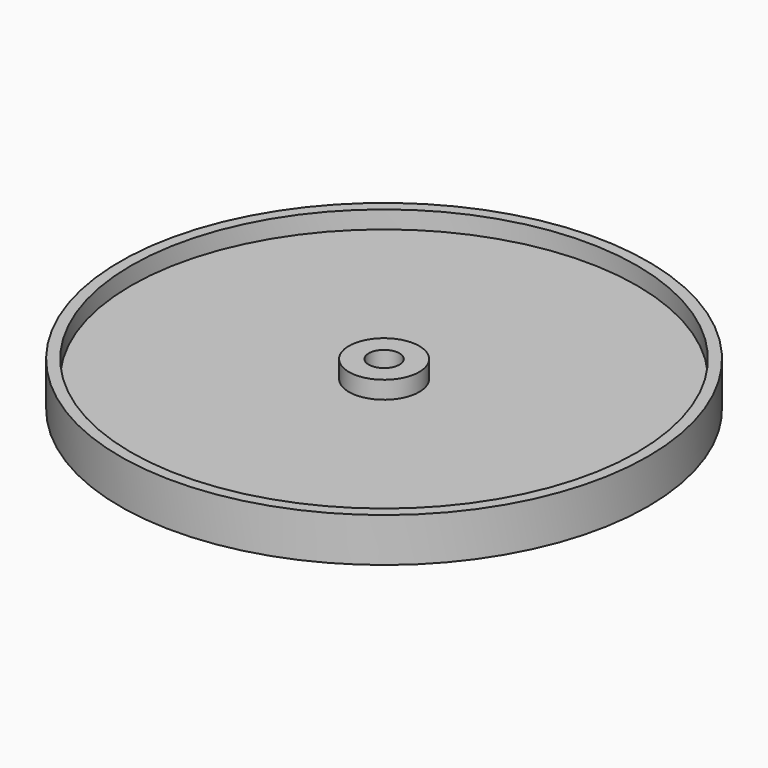
from build123d import *

# Parameters (mm, degrees)
SKETCH_R        = 120
SKETCH_R_2      = 7
PAD_DEPTH       = 20
SKETCH001_R     = 115
SKETCH001_R_2   = 16
POCKET_DEPTH    = 8
SKETCH002_R     = 115
POCKET001_DEPTH = 6


with BuildPart() as part:
    # Sketch → Pad (new body)
    with BuildSketch(Plane.XY):
        Circle(SKETCH_R)
        Circle(SKETCH_R_2, mode=Mode.SUBTRACT)
    extrude(amount=PAD_DEPTH)

    # Sketch001 (on DatumPlane) → Pocket (cut)
    with BuildSketch(Plane.XY.offset(20)):
        Circle(SKETCH001_R)
        Circle(SKETCH001_R_2, mode=Mode.SUBTRACT)
    extrude(amount=-POCKET_DEPTH, mode=Mode.SUBTRACT)

    # Sketch002 (on DatumPlane) → Pocket001 (cut)
    with BuildSketch(Plane(origin=(0, 0, 0), x_dir=(1, 0, 0), z_dir=(0, 0, -1))):
        Circle(SKETCH002_R)
    extrude(amount=-POCKET001_DEPTH, mode=Mode.SUBTRACT)


solid = part.part
